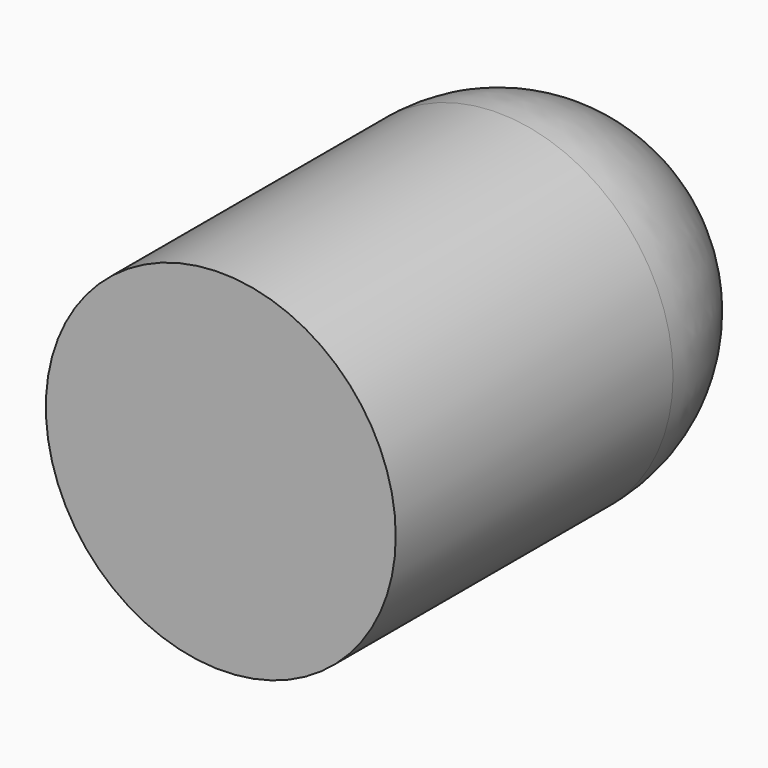
from build123d import *

# Parameters (mm, degrees)
F1_FACE_R = 64.100026
F2_DEPTH  = 127


with BuildPart() as f1:
    # F0 (on Top) → F1 (revolve)
    with BuildSketch(Plane.XY):
        with BuildLine():
            ThreePointArc((64.100026, 0), (45.325563, 45.325563), (0, 64.100026))
            Line((0, 64.100026), (0, 0))
            Line((0, 0), (64.100026, 0))
        make_face()
    revolve(axis=Axis((0, 32.050013, 0), (0, -1, 0)))

    # F1_face (on face) → F2 (join)
    with BuildSketch(Plane.XZ):
        Circle(F1_FACE_R)
    extrude(amount=F2_DEPTH)


solid = f1.part
